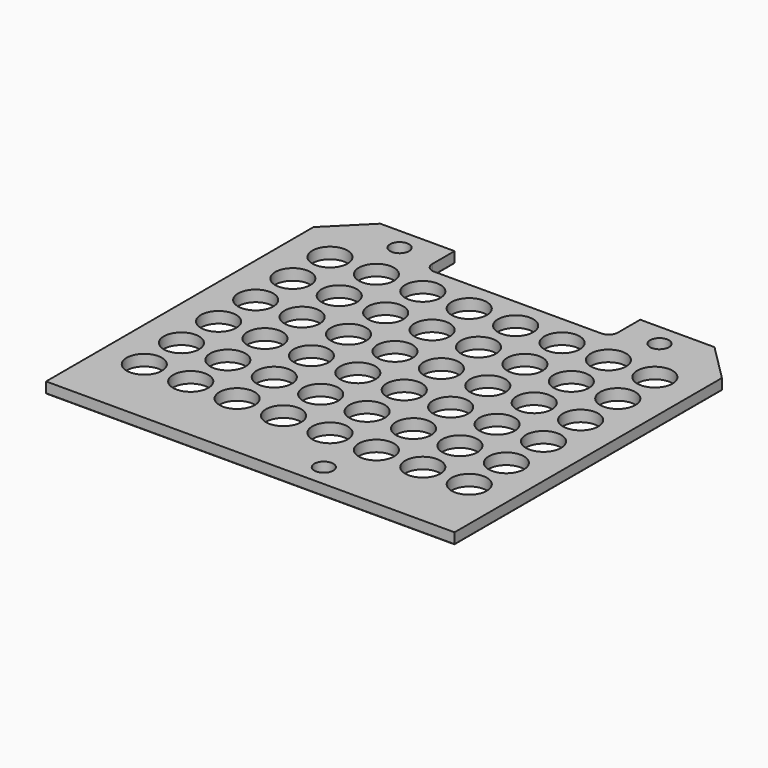
from build123d import *

# Parameters (mm, degrees)
F0_R     = 4.75
F0_R_2   = 2.55
F1_DEPTH = 3
F2_R     = 2.5
F3_SIZE  = 0.2


with BuildPart() as f1:
    # F0 (on Top) → F1 (new body)
    with BuildSketch(Plane.XY):
        Polygon((-42.4056542814, 90), (-42.4056542814, 0), (67.5943457186, 0), (67.5943457186, 90), (57.5943457186, 100), (37.5943457186, 100), (37.5943457186, 90), (-12.4056542814, 90), (-12.4056542814, 100), (-32.4056542814, 100), align=None)
        with Locations((-31.1556542814, 19)):
            Circle(F0_R, mode=Mode.SUBTRACT)
        with Locations((-18.6556542814, 19)):
            Circle(F0_R, mode=Mode.SUBTRACT)
        with Locations((-6.1556542814, 19)):
            Circle(F0_R, mode=Mode.SUBTRACT)
        with Locations((6.3443457186, 19)):
            Circle(F0_R, mode=Mode.SUBTRACT)
        with Locations((-31.1556542814, 31.5)):
            Circle(F0_R, mode=Mode.SUBTRACT)
        with Locations((-18.6556542814, 31.5)):
            Circle(F0_R, mode=Mode.SUBTRACT)
        with Locations((-31.1556542814, 44)):
            Circle(F0_R, mode=Mode.SUBTRACT)
        with Locations((-18.6556542814, 44)):
            Circle(F0_R, mode=Mode.SUBTRACT)
        with Locations((-6.1556542814, 31.5)):
            Circle(F0_R, mode=Mode.SUBTRACT)
        with Locations((6.3443457186, 31.5)):
            Circle(F0_R, mode=Mode.SUBTRACT)
        with Locations((-6.1556542814, 44)):
            Circle(F0_R, mode=Mode.SUBTRACT)
        with Locations((6.3443457186, 44)):
            Circle(F0_R, mode=Mode.SUBTRACT)
        with Locations((27.5943457186, 6)):
            Circle(F0_R_2, mode=Mode.SUBTRACT)
        with Locations((18.8443457186, 19)):
            Circle(F0_R, mode=Mode.SUBTRACT)
        with Locations((31.3443457186, 19)):
            Circle(F0_R, mode=Mode.SUBTRACT)
        with Locations((43.8443457186, 19)):
            Circle(F0_R, mode=Mode.SUBTRACT)
        with Locations((56.3443457186, 19)):
            Circle(F0_R, mode=Mode.SUBTRACT)
        with Locations((18.8443457186, 31.5)):
            Circle(F0_R, mode=Mode.SUBTRACT)
        with Locations((31.3443457186, 31.5)):
            Circle(F0_R, mode=Mode.SUBTRACT)
        with Locations((18.8443457186, 44)):
            Circle(F0_R, mode=Mode.SUBTRACT)
        with Locations((31.3443457186, 44)):
            Circle(F0_R, mode=Mode.SUBTRACT)
        with Locations((43.8443457186, 31.5)):
            Circle(F0_R, mode=Mode.SUBTRACT)
        with Locations((56.3443457186, 31.5)):
            Circle(F0_R, mode=Mode.SUBTRACT)
        with Locations((43.8443457186, 44)):
            Circle(F0_R, mode=Mode.SUBTRACT)
        with Locations((56.3443457186, 44)):
            Circle(F0_R, mode=Mode.SUBTRACT)
        with Locations((-31.1556542814, 56.5)):
            Circle(F0_R, mode=Mode.SUBTRACT)
        with Locations((-18.6556542814, 56.5)):
            Circle(F0_R, mode=Mode.SUBTRACT)
        with Locations((-31.1556542814, 69)):
            Circle(F0_R, mode=Mode.SUBTRACT)
        with Locations((-18.6556542814, 69)):
            Circle(F0_R, mode=Mode.SUBTRACT)
        with Locations((-6.1556542814, 56.5)):
            Circle(F0_R, mode=Mode.SUBTRACT)
        with Locations((6.3443457186, 56.5)):
            Circle(F0_R, mode=Mode.SUBTRACT)
        with Locations((-6.1556542814, 69)):
            Circle(F0_R, mode=Mode.SUBTRACT)
        with Locations((6.3443457186, 69)):
            Circle(F0_R, mode=Mode.SUBTRACT)
        with Locations((-31.1556542814, 81.5)):
            Circle(F0_R, mode=Mode.SUBTRACT)
        with Locations((-18.6556542814, 81.5)):
            Circle(F0_R, mode=Mode.SUBTRACT)
        with Locations((-22.4056542814, 94)):
            Circle(F0_R_2, mode=Mode.SUBTRACT)
        with Locations((-6.1556542814, 81.5)):
            Circle(F0_R, mode=Mode.SUBTRACT)
        with Locations((6.3443457186, 81.5)):
            Circle(F0_R, mode=Mode.SUBTRACT)
        with Locations((18.8443457186, 56.5)):
            Circle(F0_R, mode=Mode.SUBTRACT)
        with Locations((31.3443457186, 56.5)):
            Circle(F0_R, mode=Mode.SUBTRACT)
        with Locations((18.8443457186, 69)):
            Circle(F0_R, mode=Mode.SUBTRACT)
        with Locations((31.3443457186, 69)):
            Circle(F0_R, mode=Mode.SUBTRACT)
        with Locations((43.8443457186, 56.5)):
            Circle(F0_R, mode=Mode.SUBTRACT)
        with Locations((56.3443457186, 56.5)):
            Circle(F0_R, mode=Mode.SUBTRACT)
        with Locations((43.8443457186, 69)):
            Circle(F0_R, mode=Mode.SUBTRACT)
        with Locations((56.3443457186, 69)):
            Circle(F0_R, mode=Mode.SUBTRACT)
        with Locations((18.8443457186, 81.5)):
            Circle(F0_R, mode=Mode.SUBTRACT)
        with Locations((31.3443457186, 81.5)):
            Circle(F0_R, mode=Mode.SUBTRACT)
        with Locations((43.8443457186, 81.5)):
            Circle(F0_R, mode=Mode.SUBTRACT)
        with Locations((56.3443457186, 81.5)):
            Circle(F0_R, mode=Mode.SUBTRACT)
        with Locations((47.5943457186, 94)):
            Circle(F0_R_2, mode=Mode.SUBTRACT)
    extrude(amount=F1_DEPTH)

    # F2
    f2_edges = [f1.edges().sort_by_distance(p)[0] for p in [
        (-12.405654, 90, 1.5),
        (37.594346, 90, 1.5),
    ]]
    fillet(f2_edges, radius=F2_R)

    # F3
    f3_edges = [f1.edges().sort_by_distance(p)[0] for p in [
        (12.594346, 0, 0),
        (67.594346, 45, 0),
        (-42.405654, 45, 0),
        (62.594346, 95, 0),
        (47.594346, 100, 0),
        (-12.405654, 96.25, 0),
        (-22.405654, 100, 0),
        (-37.405654, 95, 0),
        (-11.673421, 90.732233, 0),
        (36.862113, 90.732233, 0),
        (37.594346, 96.25, 0),
        (12.594346, 90, 0),
    ]]
    chamfer(f3_edges, length=F3_SIZE)


solid = f1.part
